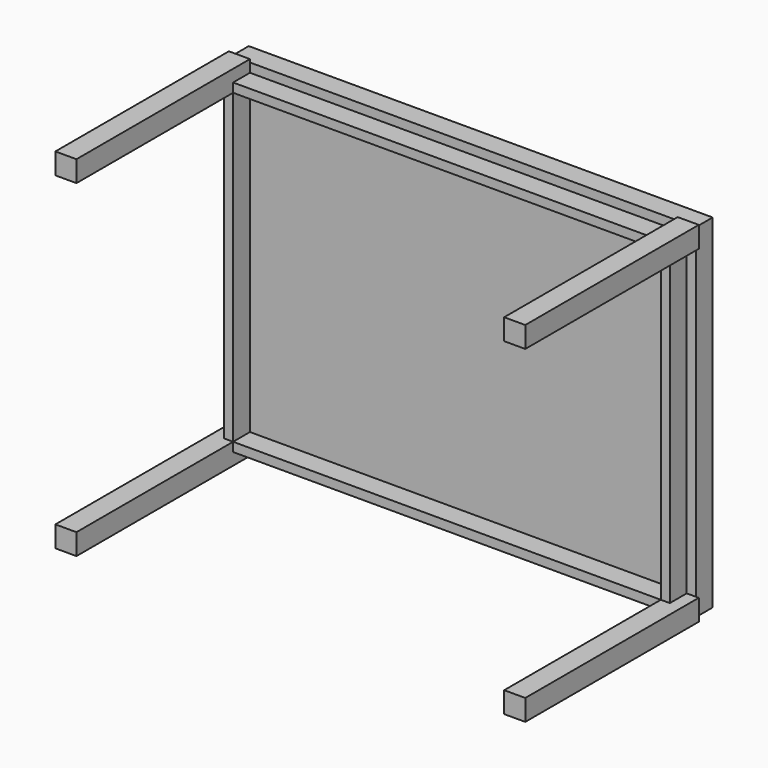
from build123d import *

# Parameters (mm, degrees)
F0_W      = 88.9
F0_H      = 88.9
F1_DEPTH  = 914.4
F2_W      = 88.9
F2_H      = 38.1
F3_DEPTH  = 1803.4
F4_W      = 88.9
F4_H      = 88.9
F5_DEPTH  = 914.4
F6_W      = 38.1
F6_H      = 88.9
F7_DEPTH  = 1295.4
F8_W      = 88.9
F8_H      = 88.9
F9_DEPTH  = 914.4
F10_W     = 38.1
F10_H     = 88.9
F11_DEPTH = 1295.4
F12_W     = 88.9
F12_H     = 88.9
F13_DEPTH = 914.4
F14_W     = 88.9
F14_H     = 38.1
F15_DEPTH = 1803.4
F16_W     = 1879.6
F16_H     = 1371.6
F17_DEPTH = 12.7
F18_W     = 1955.8
F18_H     = 1447.8
F18_W_2   = 1879.6
F18_H_2   = 1371.6
F19_DEPTH = 88.9


with BuildPart() as f1:
    # F0 (on Front) → F1 (new body)
    with BuildSketch(Plane.XZ):
        Rectangle(F0_W, F0_H)
    extrude(amount=F1_DEPTH)

    # F2 (on face) → F3 (join)
    with BuildSketch(Plane.YZ.offset(44.45)):
        with Locations((-44.45, -25.4)):
            Rectangle(F2_W, F2_H)
    extrude(amount=F3_DEPTH)

    # F4 (on Front) → F5 (join)
    with BuildSketch(Plane.XZ):
        with Locations((1892.3, 0)):
            Rectangle(F4_W, F4_H)
    extrude(amount=F5_DEPTH)

    # F6 (on face) → F7 (join)
    with BuildSketch(Plane(origin=(0, 0, -44.45), x_dir=(1, 0, 0), z_dir=(0, 0, -1))):
        with Locations((1866.9, 44.45)):
            Rectangle(F6_W, F6_H)
    extrude(amount=F7_DEPTH)

    # F8 (on Front) → F9 (join)
    with BuildSketch(Plane.XZ):
        with Locations((1892.3, -1384.3)):
            Rectangle(F8_W, F8_H)
    extrude(amount=F9_DEPTH)

    # F10 (on face) → F11 (join)
    with BuildSketch(Plane(origin=(0, 0, -44.45), x_dir=(1, 0, 0), z_dir=(0, 0, -1))):
        with Locations((25.4, 44.45)):
            Rectangle(F10_W, F10_H)
    extrude(amount=F11_DEPTH)

    # F12 (on Front) → F13 (join)
    with BuildSketch(Plane.XZ):
        with Locations((0, -1384.3)):
            Rectangle(F12_W, F12_H)
    extrude(amount=F13_DEPTH)

    # F14 (on face) → F15 (join)
    with BuildSketch(Plane.YZ.offset(44.45)):
        with Locations((-44.45, -1358.9)):
            Rectangle(F14_W, F14_H)
    extrude(amount=F15_DEPTH)

    # F16 (on Front) → F17 (join)
    with BuildSketch(Plane.XZ):
        with Locations((946.15, -692.15)):
            Rectangle(F16_W, F16_H)
    extrude(amount=-F17_DEPTH)

    # F18 (on Front) → F19 (join)
    with BuildSketch(Plane.XZ):
        with Locations((946.15, -692.15)):
            Rectangle(F18_W, F18_H)
        with Locations((946.15, -692.15)):
            Rectangle(F18_W_2, F18_H_2, mode=Mode.SUBTRACT)
    extrude(amount=-F19_DEPTH)


solid = f1.part
